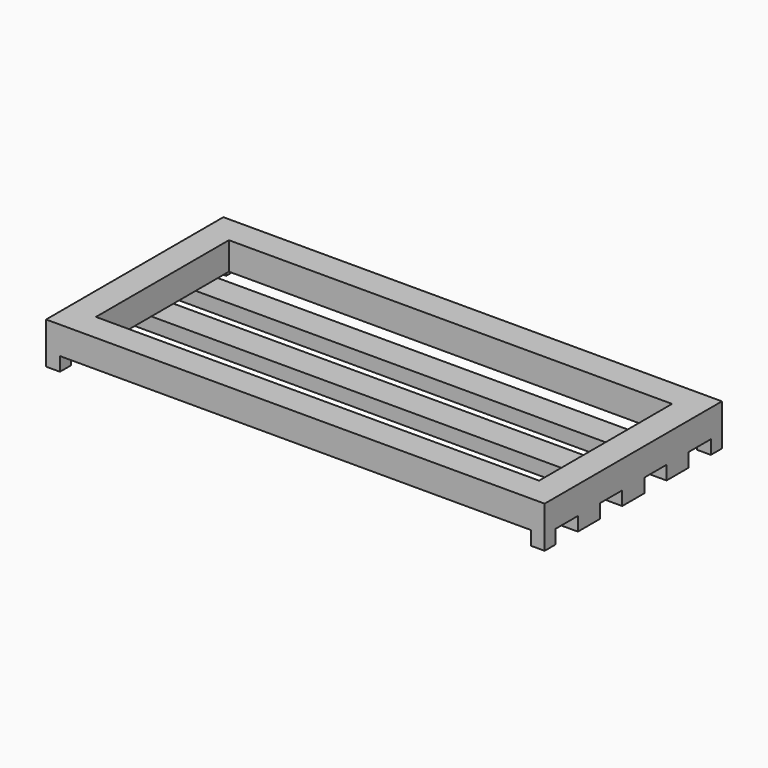
from build123d import *

# Parameters (mm, degrees)
SKETCH_W     = 914.4
SKETCH_H     = 406.4
PAD_DEPTH    = 50.8
SKETCH001_W  = 812.8
SKETCH001_H  = 304.8
POCKET_DEPTH = 50.801
SKETCH002_W  = 914.4
SKETCH002_H  = 50.8
PAD001_DEPTH = 25.4
SKETCH003_W  = 25.4
SKETCH003_H  = 25.4
PAD002_DEPTH = 25.4


with BuildPart() as part:
    # Sketch → Pad (new body)
    with BuildSketch(Plane.XY):
        with Locations((457.2, 203.2)):
            Rectangle(SKETCH_W, SKETCH_H)
    extrude(amount=PAD_DEPTH)

    # Sketch001 (on Face6 of Pad) → Pocket (cut, through all)
    with BuildSketch(Plane.XY.offset(50.8)):
        with Locations((457.2, 203.2)):
            Rectangle(SKETCH001_W, SKETCH001_H)
    extrude(amount=-POCKET_DEPTH, mode=Mode.SUBTRACT)

    # Sketch002 (on Face4 of Pocket) → Pad001 (join)
    with BuildSketch(Plane(origin=(0, 0, 0), x_dir=(1, 0, 0), z_dir=(0, 0, -1))):
        with Locations((457.2, -101.6)):
            Rectangle(SKETCH002_W, SKETCH002_H)
        with Locations((457.2, -203.2)):
            Rectangle(SKETCH002_W, SKETCH002_H)
        with Locations((457.2, -304.8)):
            Rectangle(SKETCH002_W, SKETCH002_H)
    extrude(amount=PAD001_DEPTH)

    # Sketch003 (on Face4 of Pad001) → Pad002 (join)
    with BuildSketch(Plane(origin=(0, 0, 0), x_dir=(1, 0, 0), z_dir=(0, 0, -1))):
        with Locations((12.7, -393.7)):
            Rectangle(SKETCH003_W, SKETCH003_H)
        with Locations((901.7, -393.7)):
            Rectangle(SKETCH003_W, SKETCH003_H)
        with Locations((901.7, -12.7)):
            Rectangle(SKETCH003_W, SKETCH003_H)
        with Locations((12.7, -12.7)):
            Rectangle(SKETCH003_W, SKETCH003_H)
    extrude(amount=PAD002_DEPTH)


solid = part.part
